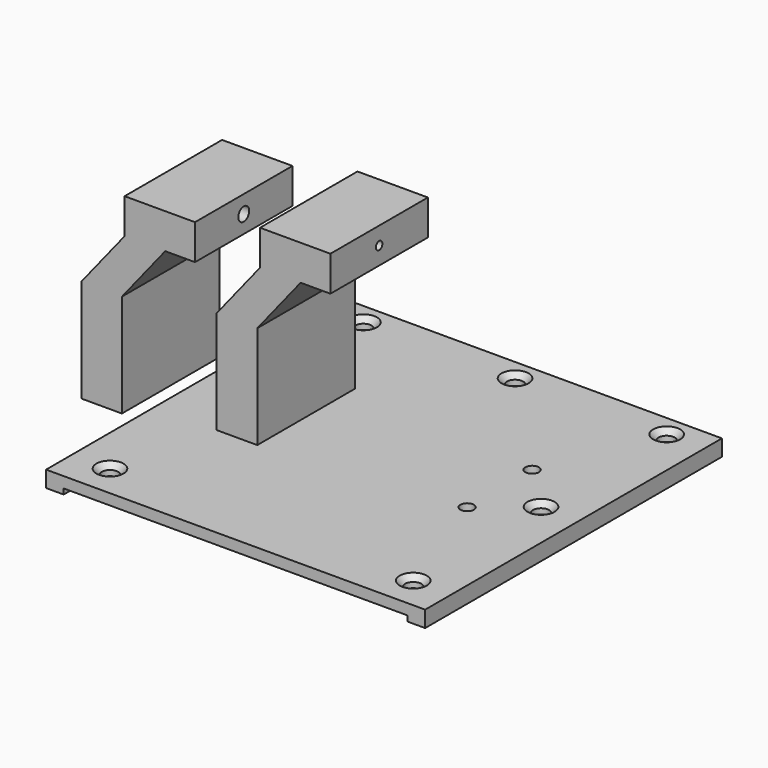
from build123d import *

# Parameters (mm, degrees)
F0_W              = 140
F0_H              = 137
F1_DEPTH          = 6
F3_D              = 6
F3_CSINK_D        = 10
F3_CSINK_ANGLE    = 90
F4_W              = 15
F4_H              = 38
F4_H_2            = 13
F5_DEPTH          = 45
F6_DEPTH          = 11
F9_D              = 5
F9_DEPTH          = 35
F9_CSINK_D        = 10
F9_CSINK_ANGLE    = 90
F9_TIP            = 1.5021515476
F11_D             = 3
F11_DEPTH         = 35
F11_CSINK_D       = 6
F11_CSINK_ANGLE   = 90
F11_TIP           = 0.9012909285
F12_D             = 3
F12_DEPTH         = 35
F12_CSINK_D       = 6
F12_CSINK_ANGLE   = 90
F12_TIP           = 0.9012909285
F14_D             = 3
F14_DEPTH         = 35
F14_TIP           = 0.9012909285
F16_W             = 127
F16_H             = 136
F17_DEPTH         = 2
F18_D             = 5
F18_DEPTH         = 11
F18_CSINK_D       = 12
F18_CSINK_ANGLE   = 90
F18_TIP           = 1.5021515476
F19_D             = 3
F19_DEPTH         = 45
F19_CSINK_D       = 12
F19_CSINK_ANGLE   = 90
F19_TIP           = 0.9012909285
F19_2_D           = 3
F19_2_DEPTH       = 45
F19_2_CSINK_D     = 12
F19_2_CSINK_ANGLE = 90
F19_2_TIP         = 0.9012909285


with BuildPart() as f1:
    # F0 (on Top) → F1 (new body)
    with BuildSketch(Plane.XY):
        with Locations((70, 68.5)):
            Rectangle(F0_W, F0_H)
    extrude(amount=F1_DEPTH)

    # F3 (through all)
    with Locations(Plane.XY.offset(6)):
        with Locations((14, 129), (70, 129), (126, 129), (14, 71), (126, 71), (126, 12), (14, 12)):
            CounterSinkHole(F3_D / 2, F3_CSINK_D / 2, counter_sink_angle=F3_CSINK_ANGLE)

    # F16 (on face) → F17 (cut)
    with BuildSketch(Plane.XY):
        with Locations((70, 66)):
            Rectangle(F16_W, F16_H)
    extrude(amount=F17_DEPTH, mode=Mode.SUBTRACT)

    # F18
    with Locations(Plane(origin=(0, 0, 0), x_dir=(1, 0, 0), z_dir=(0, 0, -1))):
        with Locations((109.5, -57.5), (109.5, -87.5)):
            CounterSinkHole(F18_D / 2, F18_CSINK_D / 2, depth=F18_DEPTH, counter_sink_angle=F18_CSINK_ANGLE)
            with Locations((0, 0, -(F18_DEPTH + F18_TIP / 2))):  # 118° drill point
                Cone(0, F18_D / 2, F18_TIP, mode=Mode.SUBTRACT)

    # F19
    with Locations(Plane(origin=(0, 0, 0), x_dir=(1, 0, 0), z_dir=(0, 0, -1))):
        with Locations((30.5, -57.5), (30.5, -87.5)):
            CounterSinkHole(F19_D / 2, F19_CSINK_D / 2, depth=F19_DEPTH, counter_sink_angle=F19_CSINK_ANGLE)
            with Locations((0, 0, -(F19_DEPTH + F19_TIP / 2))):  # 118° drill point
                Cone(0, F19_D / 2, F19_TIP, mode=Mode.SUBTRACT)


with BuildPart() as f5:
    # F4 (on face) → F5 (new body)
    with BuildSketch(Plane.XZ):
        with Locations((30.5, 25)):
            Rectangle(F4_W, F4_H)
        Polygon((39, 64), (23, 44), (38, 44), (54, 64), align=None)
        with Locations((46.5, 70.5)):
            Rectangle(F4_W, F4_H_2)
    extrude(amount=-F5_DEPTH)

    # F6 (add): a face of the model
    f6_faces = [f5.faces().sort_by_distance(p)[0] for p in [
        (54, 22.5, 70.5),
    ]]
    extrude(f6_faces, amount=F6_DEPTH)


with BuildPart() as f7_1:
    # F7: copy of F5
    add(f5.part.moved(Location((-50, 50, -6))))

    # F9
    with Locations(Plane(origin=(-11, 0, 0), x_dir=(0, -1, 0), z_dir=(-1, 0, 0))):
        with Locations((-72.5, 64.5)):
            CounterSinkHole(F9_D / 2, F9_CSINK_D / 2, depth=F9_DEPTH, counter_sink_angle=F9_CSINK_ANGLE)
            with Locations((0, 0, -(F9_DEPTH + F9_TIP / 2))):  # 118° drill point
                Cone(0, F9_D / 2, F9_TIP, mode=Mode.SUBTRACT)

    # F11
    with Locations(Plane(origin=(0, 0, 0), x_dir=(1, 0, 0), z_dir=(0, 0, -1))):
        with Locations((-19.5, -57.5)):
            CounterSinkHole(F11_D / 2, F11_CSINK_D / 2, depth=F11_DEPTH, counter_sink_angle=F11_CSINK_ANGLE)
            with Locations((0, 0, -(F11_DEPTH + F11_TIP / 2))):  # 118° drill point
                Cone(0, F11_D / 2, F11_TIP, mode=Mode.SUBTRACT)

    # F12
    with Locations(Plane(origin=(0, 0, 0), x_dir=(1, 0, 0), z_dir=(0, 0, -1))):
        with Locations((-19.5, -87.5)):
            CounterSinkHole(F12_D / 2, F12_CSINK_D / 2, depth=F12_DEPTH, counter_sink_angle=F12_CSINK_ANGLE)
            with Locations((0, 0, -(F12_DEPTH + F12_TIP / 2))):  # 118° drill point
                Cone(0, F12_D / 2, F12_TIP, mode=Mode.SUBTRACT)


with BuildPart() as f5_1:
    add(f5.part)

    # F14
    with Locations(Plane(origin=(39, 0, 0), x_dir=(0, -1, 0), z_dir=(-1, 0, 0))):
        with Locations((-22.5, 70.5)):
            Hole(F14_D / 2, depth=F14_DEPTH)
            with Locations((0, 0, -(F14_DEPTH + F14_TIP / 2))):  # 118° drill point
                Cone(0, F14_D / 2, F14_TIP, mode=Mode.SUBTRACT)


with BuildPart() as f5_2:
    # F15: moved
    add(f5_1.part.moved(Location((0, 50, 0))))

    # F19#2
    with Locations(Plane(origin=(0, 0, 0), x_dir=(1, 0, 0), z_dir=(0, 0, -1))):
        with Locations((30.5, -57.5), (30.5, -87.5)):
            CounterSinkHole(F19_2_D / 2, F19_2_CSINK_D / 2, depth=F19_2_DEPTH, counter_sink_angle=F19_2_CSINK_ANGLE)
            with Locations((0, 0, -(F19_2_DEPTH + F19_2_TIP / 2))):  # 118° drill point
                Cone(0, F19_2_D / 2, F19_2_TIP, mode=Mode.SUBTRACT)


solid = Compound([f1.part, f7_1.part, f5_2.part])
